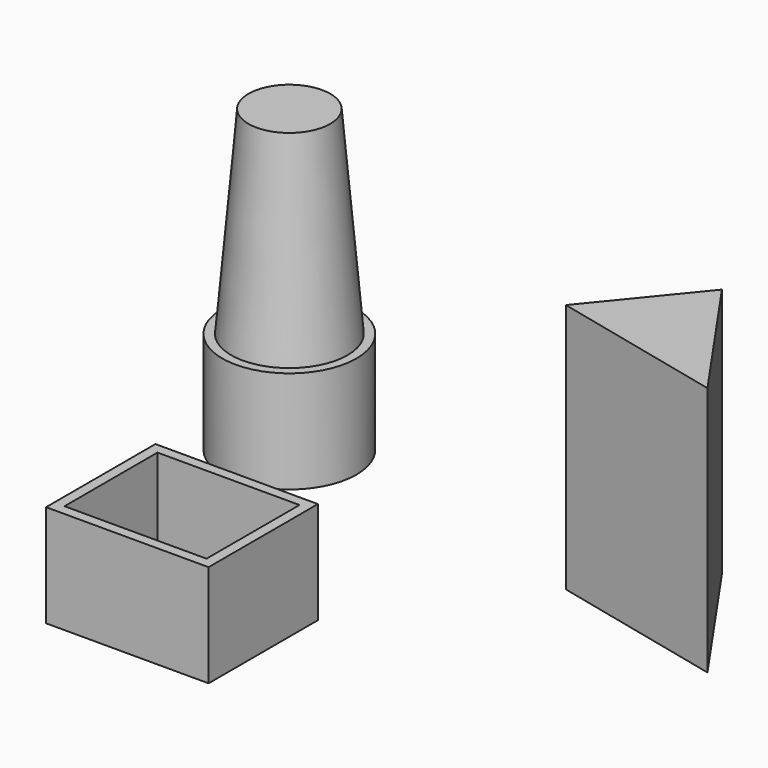
from build123d import *

# Parameters (mm, degrees)
F0_R     = 16.4092437042
F1_DEPTH = 73.4
F1_TAPER = 5
F2_DEPTH = 25
F0_W     = 39.7206880152
F0_H     = 33.4140998311
F3_T     = -2.5
F4_DEPTH = 36.2


with BuildPart() as f1:
    # F0 (on Top) → F1 (new body)
    with BuildSketch(Plane.XY):
        with Locations((-56.7606650293, 47.3366566002)):
            Circle(F0_R)
    extrude(amount=F1_DEPTH, taper=F1_TAPER)

    # F0 (on Top) → F2 (join)
    with BuildSketch(Plane.XY):
        with Locations((-56.7606650293, 47.3366566002)):
            Circle(F0_R)
    extrude(amount=F2_DEPTH)


with BuildPart() as f2:
    # F0 (on Top) → F2, piece 2 (new body)
    with BuildSketch(Plane.XY):
        with Locations((-28.3664483577, -20.966904005)):
            Rectangle(F0_W, F0_H)
    extrude(amount=F2_DEPTH)

    # F3
    f3_openings = [f2.faces().sort_by_distance(p)[0] for p in [
        (-28.366448, -20.966904, 25),
    ]]
    offset(amount=F3_T, openings=f3_openings)


with BuildPart() as f2b:
    # F0 (on Top) → F2, piece 3 (new body)
    with BuildSketch(Plane.XY):
        Polygon((63.0621388555, 25.3180470318), (39.7633165121, 58.8683485985), (20.5029565841, 35.2588780224), align=None)
    extrude(amount=F2_DEPTH)

    # F4 (add): a face of the model
    f4_faces = [f2b.faces().sort_by_distance(p)[0] for p in [
        (41.1094706506, 39.8150912176, 25),
    ]]
    extrude(f4_faces, amount=F4_DEPTH)


solid = Compound([f1.part, f2.part, f2b.part])
